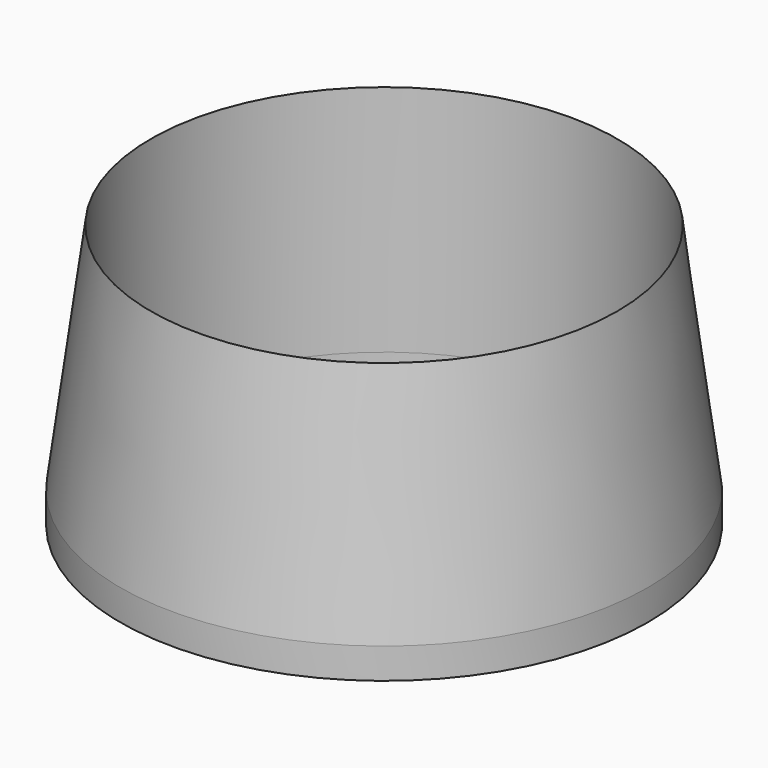
from build123d import *

# Parameters (mm, degrees)
SKETCH_R      = 43.1
PAD_DEPTH     = 5
SKETCH001_R   = 43.1
SKETCH001_R_2 = 38.1
PAD001_DEPTH  = 38.1


with BuildPart() as part:
    # Sketch → Pad (new body)
    with BuildSketch(Plane.XY):
        Circle(SKETCH_R)
        with BuildLine():
            ThreePointArc((-2.5, 38.017891), (-38.1, 0), (-2.5, -38.017891))
            Line((-2.5, 38.017891), (-2.5, -38.017891))
        make_face(mode=Mode.SUBTRACT)
        with BuildLine():
            Line((2.5, -38.017891), (2.5, 38.017891))
            ThreePointArc((2.5, -38.017891), (38.1, 0), (2.5, 38.017891))
        make_face(mode=Mode.SUBTRACT)
    extrude(amount=PAD_DEPTH)

    # Sketch001 (on Face7 of Pad) → Pad001 (join)
    with BuildSketch(Plane.XY.offset(5)):
        Circle(SKETCH001_R)
        Circle(SKETCH001_R_2, mode=Mode.SUBTRACT)
    extrude(amount=PAD001_DEPTH)

    # Sketch002 → Groove (revolve, cut)
    with BuildSketch(Plane.YZ):
        Polygon((38.1, 43.1), (43.1, 5), (43.1, 43.1), align=None)
    revolve(axis=Axis((0, 0, 0), (0, 0, 1)), mode=Mode.SUBTRACT)


solid = part.part
